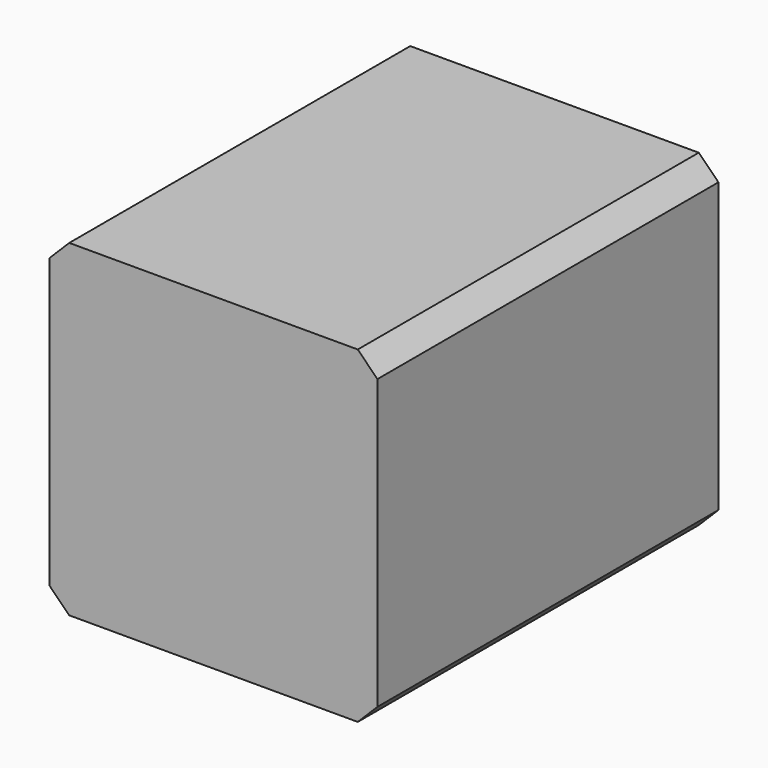
from build123d import *

# Parameters (mm, degrees)
F0_W     = 50
F0_H     = 50
F1_DEPTH = 65
F2_R     = 10
F3_DEPTH = 5
F4_R     = 4
F5_DEPTH = 20
F6_SIZE  = 3


with BuildPart() as f1:
    # F0 (on Front) → F1 (new body)
    with BuildSketch(Plane.XZ):
        Rectangle(F0_W, F0_H)
    extrude(amount=F1_DEPTH)

    # F2 (on face) → F3 (join)
    with BuildSketch(Plane(origin=(0, 0, 0), x_dir=(-1, 0, 0), z_dir=(0, 1, 0))):
        Circle(F2_R)
    extrude(amount=F3_DEPTH)

    # F4 (on face) → F5 (join)
    with BuildSketch(Plane(origin=(0, 5, 0), x_dir=(-1, 0, 0), z_dir=(0, 1, 0))):
        Circle(F4_R)
    extrude(amount=F5_DEPTH)

    # F6
    f6_edges = [f1.edges().sort_by_distance(p)[0] for p in [
        (-25, -32.5, 25),
        (-25, -32.5, -25),
        (25, -32.5, -25),
        (25, -32.5, 25),
    ]]
    chamfer(f6_edges, length=F6_SIZE)


solid = f1.part
